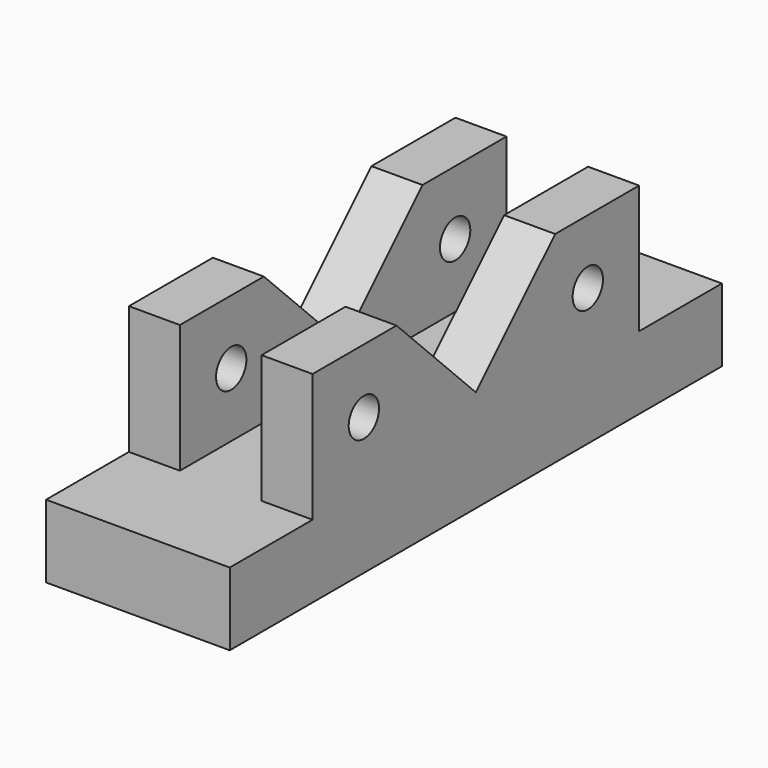
from build123d import *

# Parameters (mm, degrees)
SKETCH_W        = 63
SKETCH_H        = 211
PAD_DEPTH       = 25
SKETCH001_W     = 17.5
SKETCH001_H     = 140
PAD001_DEPTH    = 44
POCKET_DEPTH    = 63
SKETCH003_R     = 6.5
POCKET001_DEPTH = 63


with BuildPart() as part:
    # Sketch → Pad (new body)
    with BuildSketch(Plane.XY):
        with Locations((31.5, 105.5)):
            Rectangle(SKETCH_W, SKETCH_H)
    extrude(amount=PAD_DEPTH)

    # Sketch001 (on Face6 of Pad) → Pad001 (join)
    with BuildSketch(Plane.XY.offset(25)):
        with Locations((8.75, 105.5)):
            Rectangle(SKETCH001_W, SKETCH001_H)
        with Locations((54.25, 105.5)):
            Rectangle(SKETCH001_W, SKETCH001_H)
    extrude(amount=PAD001_DEPTH)

    # Sketch002 (on Face8 of Pad001) → Pocket (cut)
    with BuildSketch(Plane.YZ.offset(63)):
        Polygon((71.5, 69), (105.5, 35), (139.5, 69), align=None)
    extrude(amount=-POCKET_DEPTH, mode=Mode.SUBTRACT)

    # Sketch003 (on Face8 of Pocket) → Pocket001 (cut)
    with BuildSketch(Plane.YZ.offset(63)):
        with Locations((57.5, 47)):
            Circle(SKETCH003_R)
        with Locations((153.5, 47)):
            Circle(SKETCH003_R)
    extrude(amount=-POCKET001_DEPTH, mode=Mode.SUBTRACT)


solid = part.part
